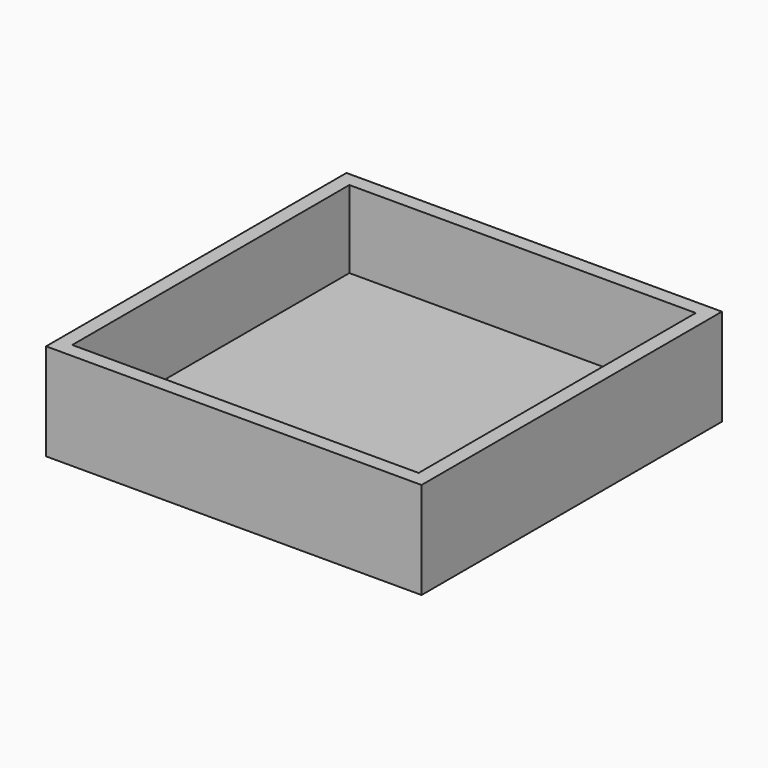
from build123d import *

# Parameters (mm, degrees)
F0_W     = 155
F0_H     = 155
F1_DEPTH = 40
F2_T     = -6
F3_DEPTH = 2


with BuildPart() as f1:
    # F0 (on Top) → F1 (new body)
    with BuildSketch(Plane.XY):
        Rectangle(F0_W, F0_H)
    extrude(amount=F1_DEPTH)

    # F2
    f2_openings = [f1.faces().sort_by_distance(p)[0] for p in [
        (0, 0, 40),
    ]]
    offset(amount=F2_T, openings=f2_openings)

    # F3 (add): a face of the model
    f3_faces = [f1.faces().sort_by_distance(p)[0] for p in [
        (0, 0, 6),
    ]]
    extrude(f3_faces, amount=F3_DEPTH)


solid = f1.part
